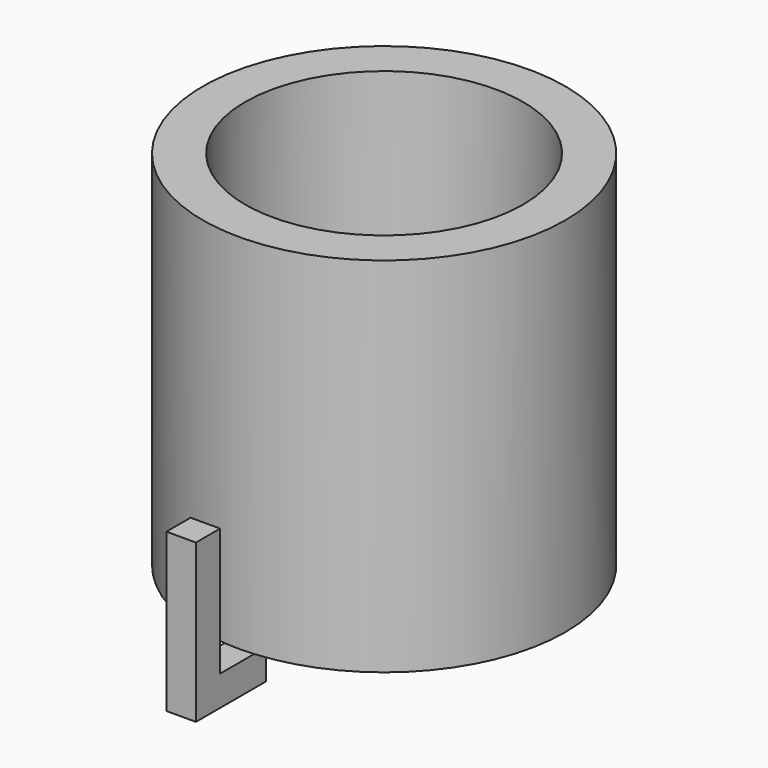
from build123d import *

# Parameters (mm, degrees)
F0_R     = 30
F1_DEPTH = 60
F2_T     = -7
F3_W     = 6
F3_H     = 4
F4_DEPTH = 7
F6_DEPTH = 5
F7_W     = 4.8802027013
F7_H     = 21.1299806833
F7_H_2   = 5
F8_DEPTH = 5


with BuildPart() as f1:
    # F0 (on Top) → F1 (new body)
    with BuildSketch(Plane.XY):
        Circle(F0_R)
    extrude(amount=F1_DEPTH)

    # F2
    f2_openings = [f1.faces().sort_by_distance(p)[0] for p in [
        (0, 0, 60),
    ]]
    offset(amount=F2_T, openings=f2_openings)

    # F3 (on face) → F4 (cut)
    with BuildSketch(Plane(origin=(0, 0, 0), x_dir=(1, 0, 0), z_dir=(0, 0, -1))):
        with Locations((10.2678574622, 12.6785714924)):
            Rectangle(F3_W, F3_H)
    extrude(amount=-F4_DEPTH, mode=Mode.SUBTRACT)

    # F5 (on face) → F6 (join)
    with BuildSketch(Plane(origin=(0, 0, 0), x_dir=(1, 0, 0), z_dir=(0, 0, -1))):
        with BuildLine():
            Line((-2.4681275245, 36.9405262172), (-2.4681275245, 29.8983000608))
            ThreePointArc((-2.4681275245, 29.8983000608), (-0.0281193423, 29.9999868217), (2.4120751768, 29.9028743324))
            Line((2.4120751768, 29.9028743324), (2.4120751768, 36.9405262172))
            Line((2.4120751768, 36.9405262172), (-2.4681275245, 36.9405262172))
        make_face()
        with BuildLine():
            Line((-2.4681275245, 29.8983000608), (-2.4681275245, 27.4804420769))
            Line((-2.4681275245, 27.4804420769), (2.4120751768, 27.4804420769))
            Line((2.4120751768, 27.4804420769), (2.4120751768, 29.9028743324))
            ThreePointArc((2.4120751768, 29.9028743324), (-0.0281193423, 29.9999868217), (-2.4681275245, 29.8983000608))
        make_face()
    extrude(amount=F6_DEPTH)

    # F7 (on face) → F8 (join)
    with BuildSketch(Plane.XZ.offset(36.9405262172)):
        with Locations((-0.0280261738, 10.5649903417)):
            Rectangle(F7_W, F7_H)
        with Locations((-0.0280261738, -2.5)):
            Rectangle(F7_W, F7_H_2)
    extrude(amount=F8_DEPTH)


solid = f1.part
